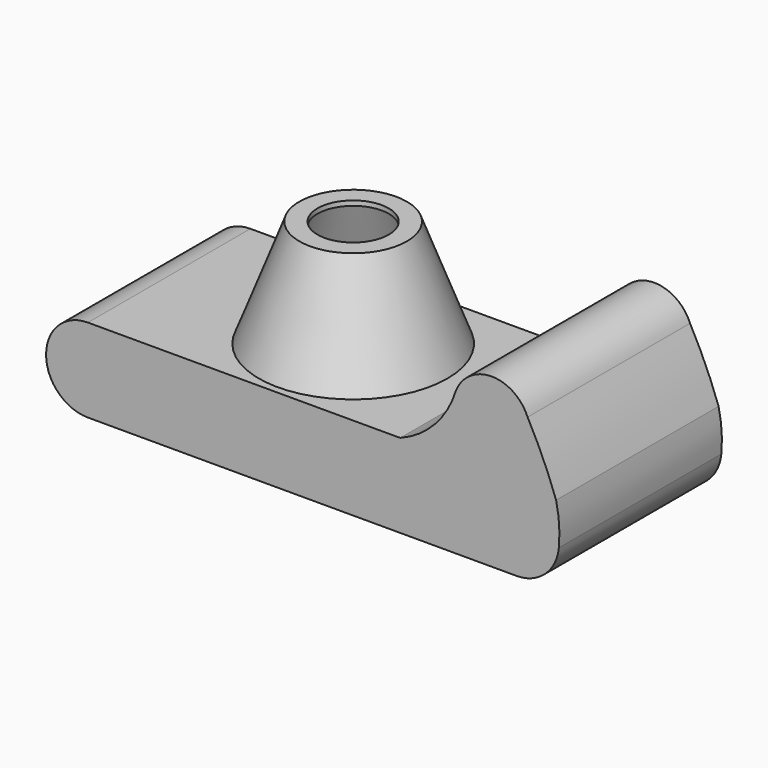
from build123d import *

# Parameters (mm, degrees)
F1_DEPTH  = 85
F2_W      = 145
F2_H      = 31
F3_DEPTH  = 82
F5_DEPTH  = 3
F6_R      = 36.5
F7_DEPTH  = 25
F8_W      = 150
F8_H      = 79
F9_DEPTH  = 25
F12_R     = 39.5
F11_R     = 22.5
F15_R     = 19.5
F16_R     = 36.5
F18_R     = 14.9183969034
F19_DEPTH = 25
F20_R     = 17.7986384492


with BuildPart() as f1:
    # F0 (on Front) → F1 (new body)
    with BuildSketch(Plane.XZ):
        with BuildLine():
            Line((53.6785274744, 17.5), (-77, 17.5))
            ThreePointArc((-77, 17.5), (-94.5, 0), (-77, -17.5))
            Line((-77, -17.5), (107, -17.5))
            Line((107, -17.5), (115.9520000219, -17.5))
            ThreePointArc((115.9520000219, -17.5), (120.1181090792, -1.0918428156), (118.9363524318, 15.7956536859))
            ThreePointArc((118.9363524318, 15.7956536859), (113.4877587414, 29.3800706908), (107, 42.5))
            ThreePointArc((107, 42.5), (92, 52.605015692), (77, 42.5))
            ThreePointArc((77, 42.5), (68.2201693479, 27.312521558), (53.6785274744, 17.5))
        make_face()
    extrude(amount=F1_DEPTH)

    # F2 (on face) → F3 (cut)
    with BuildSketch(Plane.XZ.offset(85)):
        Rectangle(F2_W, F2_H)
        with BuildLine():
            ThreePointArc((72.5, -15.5), (88, 0), (72.5, 15.5))
            Line((72.5, 15.5), (72.5, -15.5))
        make_face()
        with BuildLine():
            Line((-72.5, -15.5), (-72.5, 15.5))
            ThreePointArc((-72.5, 15.5), (-88, 0), (-72.5, -15.5))
        make_face()
    extrude(amount=-F3_DEPTH, mode=Mode.SUBTRACT)

    # F4 (on face) → F5 (join)
    with BuildSketch(Plane.XZ.offset(85)):
        Polygon((-80.3302004933, 15.8144365996), (-89.8194238544, 7.0904721506), (-91.0138636827, 2.9792727437), (-88.2837101817, -7.9413596541), (-85.0075185299, -14.220722951), (-77, -16.4173003286), (74.3856430054, -16.4173003286), (83.1666067243, -15.5), (93.1773036718, -10.9323309734), (95.8332046866, 5.4116621614), (83.1666067243, 16.6404508054), (67.7867159247, 16.6404508054), (-69.6145296097, 16.6404508054), align=None)
    extrude(amount=-F5_DEPTH)

    # F6 (on face) → F7 (cut)
    with BuildSketch(Plane.XY.offset(17.5)):
        with Locations((0, -42.5)):
            Circle(F6_R)
    extrude(amount=-F7_DEPTH, mode=Mode.SUBTRACT)

    # F8 (on face) → F9 (cut)
    with BuildSketch(Plane(origin=(0, 0, -17.5), x_dir=(1, 0, 0), z_dir=(0, 0, -1))):
        with Locations((0, 42.5)):
            Rectangle(F8_W, F8_H)
    extrude(amount=-F9_DEPTH, mode=Mode.SUBTRACT)

    # F12 (on face) → F13 section 0
    with BuildSketch(Plane.XY.offset(17.5)):
        with Locations((0, -42.5)):
            Circle(F12_R)
    # F11 (on offset) → F13 section 1
    with BuildSketch(Plane.XY.offset(62.5)):
        with Locations((0, -42.5)):
            Circle(F11_R)
    loft()

    # F15 (on offset) → F17 section 0
    with BuildSketch(Plane.XY.offset(60.5)):
        with Locations((0, -42.5)):
            Circle(F15_R)
    # F16 (on face) → F17 section 1
    with BuildSketch(Plane(origin=(0, 0, 17.5), x_dir=(1, 0, 0), z_dir=(0, 0, -1))):
        with Locations((0, 42.5)):
            Circle(F16_R)
    loft(mode=Mode.SUBTRACT)

    # F18 (on face) → F19 (cut)
    with BuildSketch(Plane.XY.offset(62.5)):
        with Locations((0, -42.5)):
            Circle(F18_R)
    extrude(amount=-F19_DEPTH, mode=Mode.SUBTRACT)

    # F20
    f20_edges = [f1.edges().sort_by_distance(p)[0] for p in [
        (115.952, -42.5, -17.5),
    ]]
    fillet(f20_edges, radius=F20_R)


solid = f1.part
